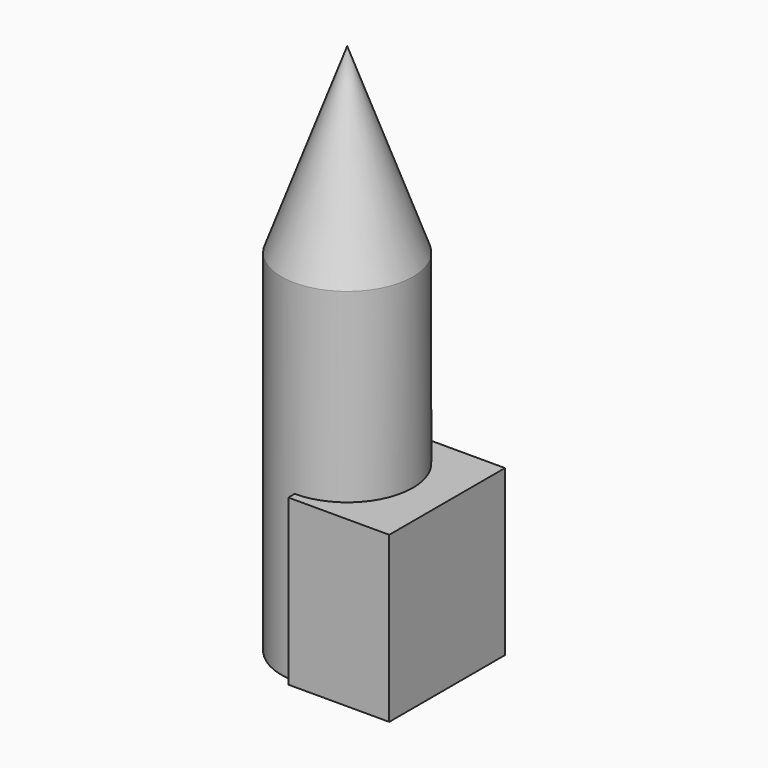
from build123d import *

# Parameters (mm, degrees)
F0_R     = 3.75
F1_DEPTH = 20
F2_W     = 5.758919
F2_H     = 8.252938
F3_DEPTH = 9.4


with BuildPart() as f1:
    # F0 (on Top) → F1 (new body)
    with BuildSketch(Plane.XY):
        Circle(F0_R)
    extrude(amount=F1_DEPTH)

    # F2 (on Top) → F3 (join)
    with BuildSketch(Plane.XY):
        with Locations((2.879459, -0.073531)):
            Rectangle(F2_W, F2_H)
    extrude(amount=F3_DEPTH)

    # F4 (on Front) → F5 (revolve)
    with BuildSketch(Plane.XZ):
        Polygon((0, 30.37099), (0, 20), (3.750007, 20), align=None)
    revolve(axis=Axis((0, 0, 25.185495), (0, 0, 1)))


solid = f1.part
